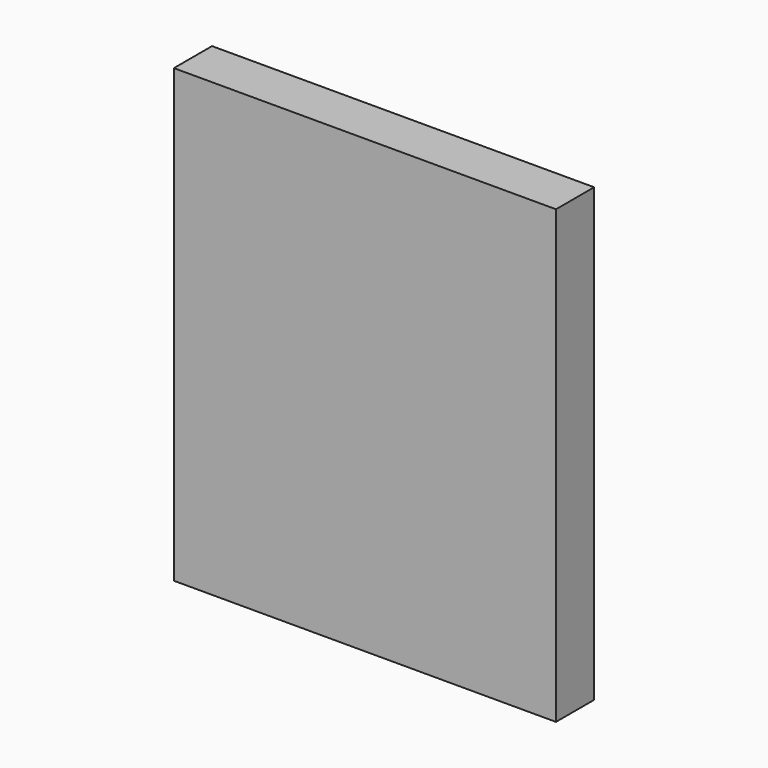
from build123d import *

# Parameters (mm, degrees)
SKETCH_W  = 25.4
SKETCH_H  = 3.17
PAD_DEPTH = 30


with BuildPart() as part:
    # Sketch → Pad (new body)
    with BuildSketch(Plane.XY):
        with Locations((0, -0.0025)):
            Rectangle(SKETCH_W, SKETCH_H)
    extrude(amount=PAD_DEPTH)


solid = part.part
